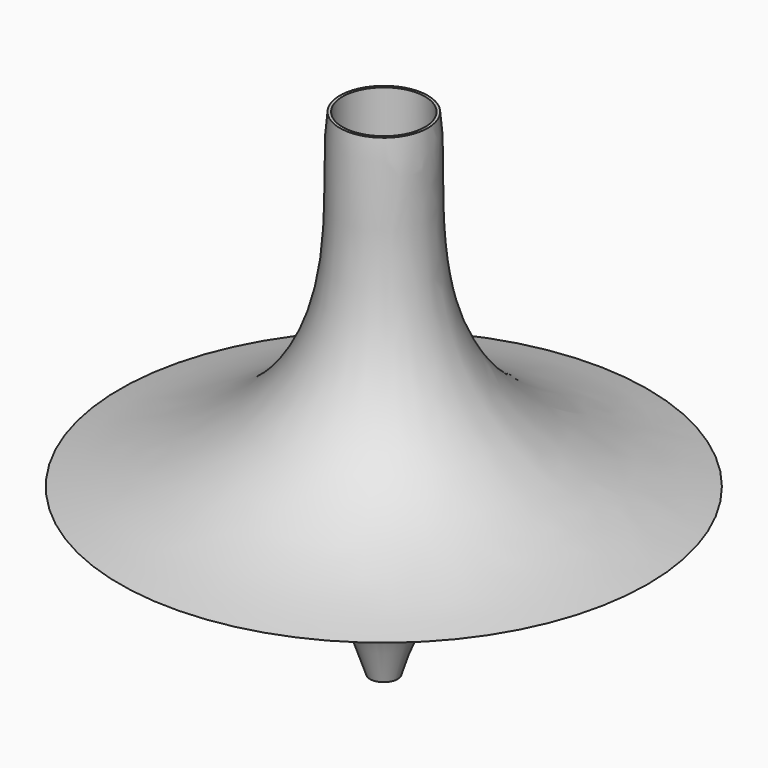
from build123d import *


with BuildPart() as f1:
    # F0 (on Front) → F1 (revolve)
    with BuildSketch(Plane.XZ):
        with BuildLine():
            Line((4.7625, 47.633519), (0, 47.625))
            Line((0, 47.625), (0, 20.32))
            Line((0, 20.32), (1.5875, 20.32))
            Line((1.5875, 20.32), (1.5875, 0))
            add(Edge.make_bspline(
                [(30.48, 19.05), (15.280179, 17.193271), (5.565798, 14.151044), (1.5875, 0)],
                knots=[0, 0, 0, 0, 34.6075, 34.6075, 34.6075, 34.6075], degree=3))
            add(Edge.make_bspline(
                [(5.08, 57.15), (6.557812, 46.993788), (0, 25.078584), (30.48, 19.05)],
                knots=[0, 0, 0, 0, 45.790501, 45.790501, 45.790501, 45.790501], degree=3))
            Line((5.08, 57.15), (4.7625, 57.15))
            Line((4.7625, 57.15), (4.7625, 47.633519))
        make_face()
    revolve(axis=Axis((0, 0, 28.575), (0, 0, -1)))


solid = f1.part
